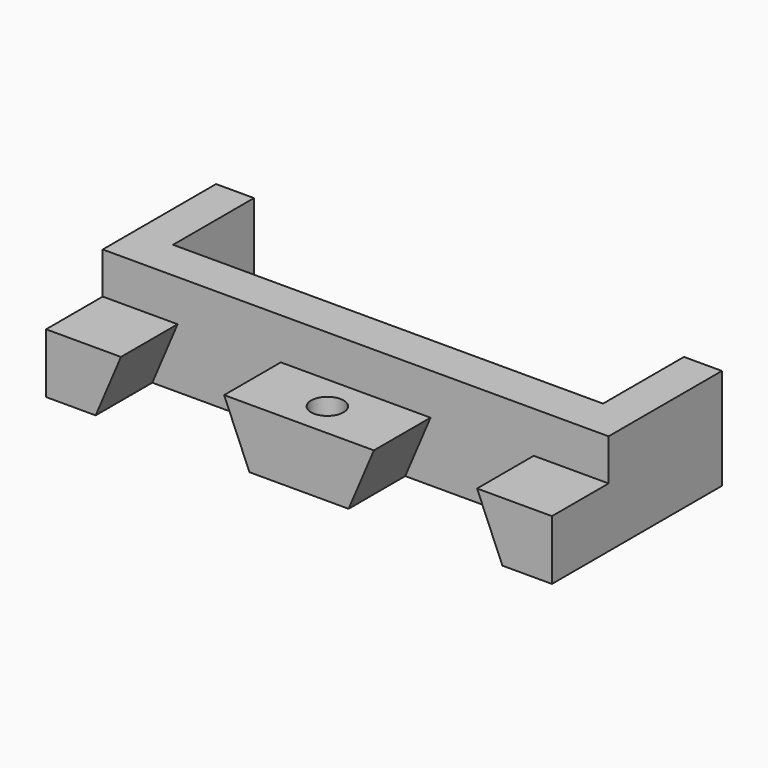
from build123d import *

# Parameters (mm, degrees)
SKETCH_W        = 50
SKETCH_H        = 21
PAD_DEPTH       = 10
SKETCH001_W     = 42.5
SKETCH001_H     = 10
POCKET_DEPTH    = 7
SKETCH002_R     = 1.6
POCKET001_DEPTH = 5
POCKET002_DEPTH = 7
SKETCH004_W     = 50
SKETCH004_H     = 7
POCKET003_DEPTH = 4.1
SKETCH005_R     = 1.6
POCKET004_DEPTH = 10.001


with BuildPart() as part:
    # Sketch → Pad (new body)
    with BuildSketch(Plane.XY):
        with Locations((25, 10.5)):
            Rectangle(SKETCH_W, SKETCH_H)
    extrude(amount=PAD_DEPTH)

    # Sketch001 (on Face6 of Pad) → Pocket (cut)
    with BuildSketch(Plane.XY.offset(10)):
        with Locations((25, 16)):
            Rectangle(SKETCH001_W, SKETCH001_H)
    extrude(amount=-POCKET_DEPTH, mode=Mode.SUBTRACT)

    # Sketch002 (on Face6 of Pocket) → Pocket001 (cut)
    with BuildSketch(Plane.XY.offset(3)):
        with Locations((9.5, 16.7)):
            Circle(SKETCH002_R)
        with Locations((40.5, 16.7)):
            Circle(SKETCH002_R)
    extrude(amount=-POCKET001_DEPTH, mode=Mode.SUBTRACT)

    # Sketch003 (on Face9 of Pocket001) → Pocket002 (cut)
    with BuildSketch(Plane.XZ):
        Polygon((4.9, 0), (20.1, 0), (17.6, 5.9), (7.4, 5.9), align=None)
        Polygon((29.9, 0), (45.1, 0), (42.6, 5.9), (32.4, 5.9), align=None)
    extrude(amount=-POCKET002_DEPTH, mode=Mode.SUBTRACT)

    # Sketch004 (on Face4 of Pocket002) → Pocket003 (cut)
    with BuildSketch(Plane.XY.offset(10)):
        with Locations((25, 3.5)):
            Rectangle(SKETCH004_W, SKETCH004_H)
    extrude(amount=-POCKET003_DEPTH, mode=Mode.SUBTRACT)

    # Sketch005 (on Face2 of Pocket003) → Pocket004 (cut, through all)
    with BuildSketch(Plane(origin=(0, 0, 0), x_dir=(1, 0, 0), z_dir=(0, 0, -1))):
        with Locations((25, -3.5)):
            Circle(SKETCH005_R)
    extrude(amount=-POCKET004_DEPTH, mode=Mode.SUBTRACT)


solid = part.part
